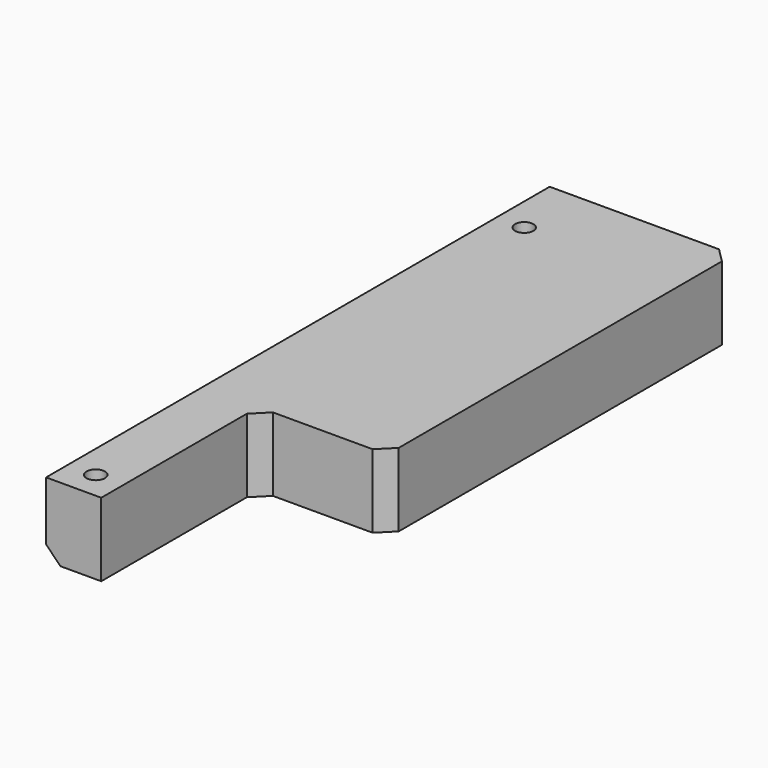
from build123d import *

# Parameters (mm, degrees)
SKETCH_R        = 0.635
PAD_DEPTH       = 5.08
CHAMFER_SIZE    = 1
CHAMFER001_SIZE = 1


with BuildPart() as part:
    # Sketch → Pad (new body)
    with BuildSketch(Plane.XY):
        Polygon((-1.905, 23.0759), (-1.905, -20.405), (1.905, -20.405), (1.905, -6.833036), (10.795, -6.833036), (10.795, 23.0759), align=None)
        with Locations((0, 18.5)):
            Circle(SKETCH_R, mode=Mode.SUBTRACT)
        with Locations((0, -18.5)):
            Circle(SKETCH_R, mode=Mode.SUBTRACT)
    extrude(amount=PAD_DEPTH)

    # Chamfer
    chamfer_edges = [part.edges().sort_by_distance(p)[0] for p in [
        (-1.905, 1.33545, 0),
    ]]
    chamfer(chamfer_edges, length=CHAMFER_SIZE)

    # Chamfer001
    chamfer001_edges = [part.edges().sort_by_distance(p)[0] for p in [
        (1.905, -6.833036, 2.54),
        (10.795, -6.833036, 2.54),
        (10.795, 23.0759, 2.54),
    ]]
    chamfer(chamfer001_edges, length=CHAMFER001_SIZE)


solid = part.part
